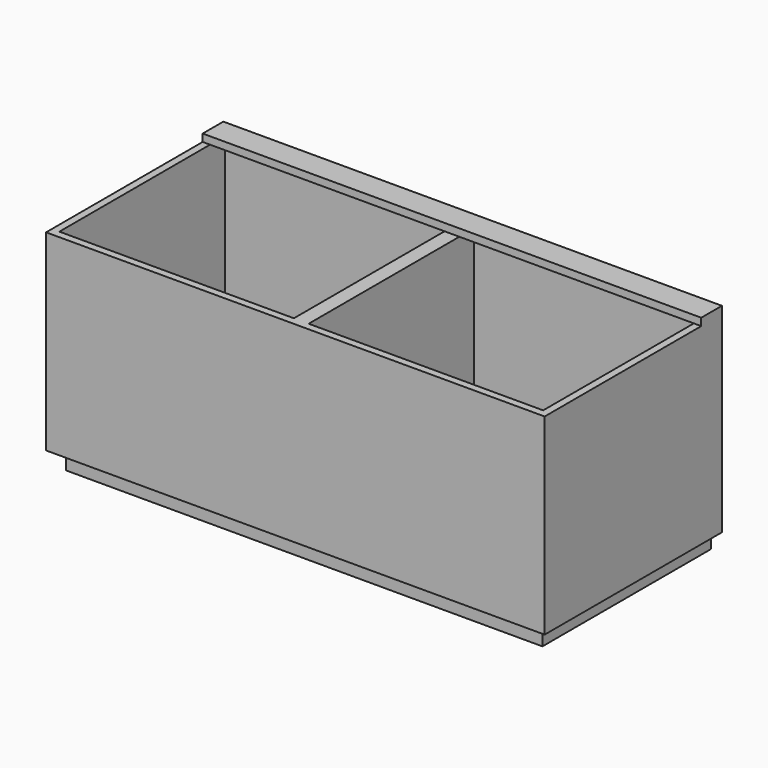
from build123d import *

# Parameters (mm, degrees)
F0_W     = 1350
F0_H     = 600
F0_W_2   = 20
F0_H_2   = 560
F1_DEPTH = 500
F2_W     = 1350
F2_H     = 70
F3_DEPTH = 20
F4_W     = 1350
F4_H     = 600
F5_DEPTH = 20
F6_R     = 25
F7_DEPTH = 55
F9_DEPTH = 50


with BuildPart() as f1:
    # F0 (on Top) → F1 (new body)
    with BuildSketch(Plane.XY):
        Rectangle(F0_W, F0_H)
        Polygon((-655, -280), (-655, 280), (-20, 280), (0, 280), (20, 280), (655, 280), (655, -280), (20, -280), (0, -280), (-20, -280), align=None, mode=Mode.SUBTRACT)
        with Locations((10, 0)):
            Rectangle(F0_W_2, F0_H_2)
        with Locations((-10, 0)):
            Rectangle(F0_W_2, F0_H_2)
    extrude(amount=F1_DEPTH)

    # F2 (on face) → F3 (join)
    with BuildSketch(Plane.XY.offset(500)):
        with Locations((0, 265)):
            Rectangle(F2_W, F2_H)
    extrude(amount=F3_DEPTH)

    # F4 (on face) → F5 (join)
    with BuildSketch(Plane(origin=(0, 0, 0), x_dir=(1, 0, 0), z_dir=(0, 0, -1))):
        Rectangle(F4_W, F4_H)
    extrude(amount=F5_DEPTH)

    # F6 (on face) → F7 (join)
    with BuildSketch(Plane(origin=(0, 0, -20), x_dir=(1, 0, 0), z_dir=(0, 0, -1))):
        with Locations((-502.596352, 223.376156)):
            Circle(F6_R)
        with Locations((-502.596352, -223.376156)):
            Circle(F6_R)
        with Locations((502.596352, -223.376156)):
            Circle(F6_R)
        with Locations((502.596352, 223.376156)):
            Circle(F6_R)
    extrude(amount=F7_DEPTH)

    # F8 (on face) → F9 (join)
    with BuildSketch(Plane(origin=(0, 0, -20), x_dir=(1, 0, 0), z_dir=(0, 0, -1))):
        Polygon((645, 270), (-645, 270), (-645, -270), (-645, -300), (-625, -300), (-625, -250), (-625, 250), (625, 250), (625, -250), (625, -300), (645, -300), (645, -270), align=None)
    extrude(amount=F9_DEPTH)


solid = f1.part
